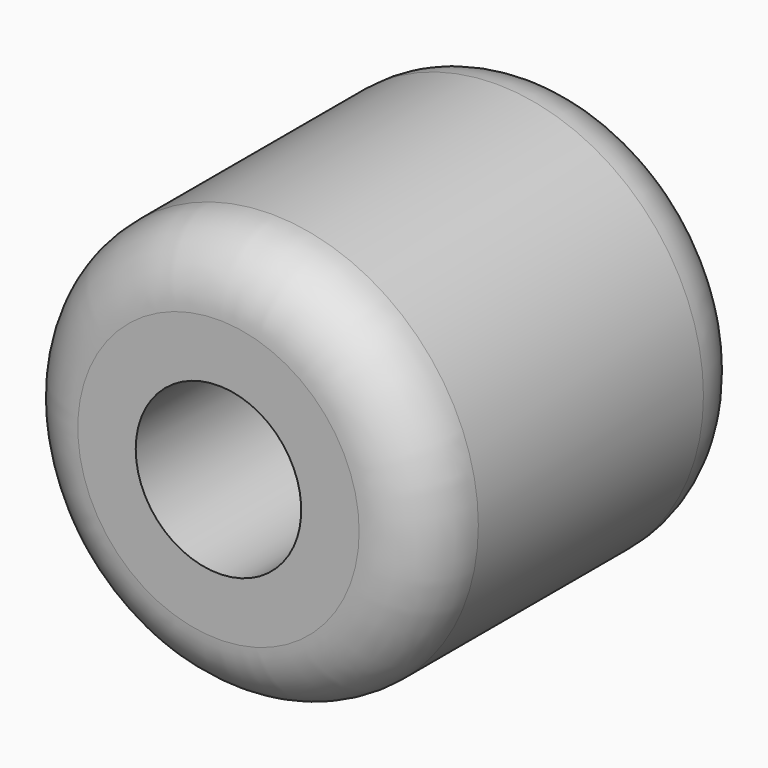
from build123d import *

# Parameters (mm, degrees)
F0_R     = 15.875
F1_DEPTH = 31.75
F3_D     = 12.7
F4_R     = 5.08


with BuildPart() as f1:
    # F0 (on Front) → F1 (new body)
    with BuildSketch(Plane.XZ):
        Circle(F0_R)
        Circle(F0_R)
    extrude(amount=F1_DEPTH)

    # F3 (through all)
    with Locations(Plane(origin=(0, 0, 0), x_dir=(1, 0, 0), z_dir=(0, 1, 0))):
        with Locations((0, 0)):
            Hole(F3_D / 2)

    # F4
    f4_edges = [f1.edges().sort_by_distance(p)[0] for p in [
        (-15.875, -31.75, 0),
        (-15.875, 0, 0),
    ]]
    fillet(f4_edges, radius=F4_R)


solid = f1.part
